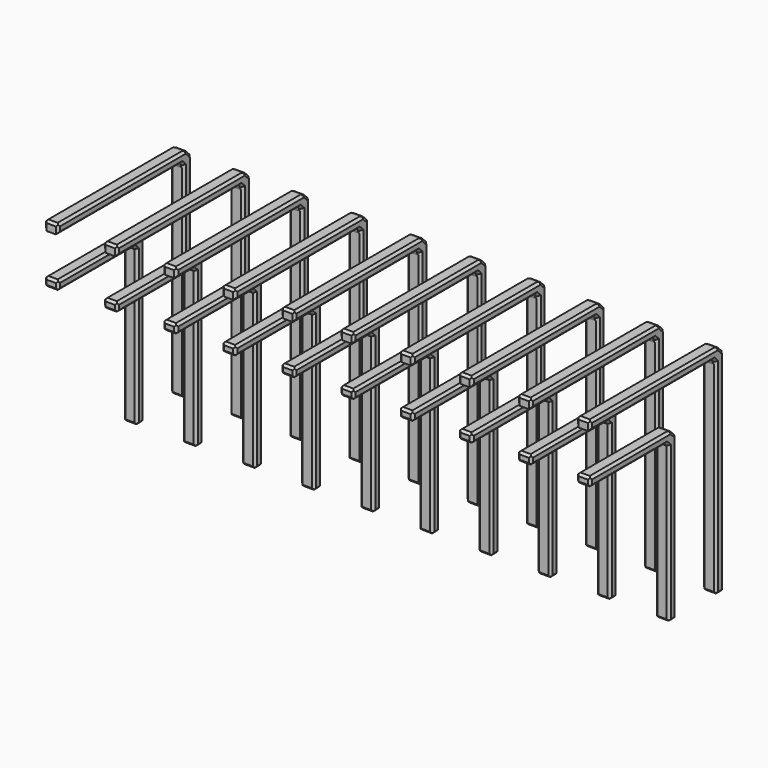
from build123d import *

# Parameters (mm, degrees)
PAD_DEPTH       = 0.6
CHAMFER_SIZE    = 0.1
CHAMFER001_SIZE = 0.1
CHAMFER002_SIZE = 0.1
CHAMFER003_SIZE = 0.1
CHAMFER004_SIZE = 0.1
CHAMFER005_SIZE = 0.1
CHAMFER006_SIZE = 0.1
CHAMFER007_SIZE = 0.1
ARRAY_X_COUNT   = 10
ARRAY_X_PITCH   = 2.54


with BuildPart() as part:
    # Sketch → Pad (new body)
    with BuildSketch(Plane.YZ):
        Polygon((-2.7, 9.9), (1.388579, 9.9), (1.53, 9.758579), (1.53, 3.1), (1.93, 3.1), (1.93, 10.017157), (1.647157, 10.3), (-2.7, 10.3), align=None)
        Polygon((-2.7, 12.44), (-2.7, 12.04), (3.928579, 12.04), (4.07, 11.898579), (4.07, 3.1), (4.47, 3.1), (4.47, 12.157157), (4.187157, 12.44), align=None)
    extrude(amount=PAD_DEPTH)

    # Chamfer
    chamfer_edges = [part.edges().sort_by_distance(p)[0] for p in [
        (0.6, -2.7, 12.24),
        (0.6, 0.614289, 12.04),
        (0.6, 3.999289, 11.969289),
        (0.6, 4.07, 7.499289),
        (0.6, 4.27, 3.1),
        (0.6, 4.47, 7.628579),
        (0.6, 4.328579, 12.298579),
        (0.6, 0.743579, 12.44),
    ]]
    chamfer(chamfer_edges, length=CHAMFER_SIZE)

    # Chamfer001
    chamfer001_edges = [part.edges().sort_by_distance(p)[0] for p in [
        (0, -2.7, 12.24),
        (0, 0.614289, 12.04),
        (0, 3.999289, 11.969289),
        (0, 4.07, 7.499289),
        (0, 4.27, 3.1),
        (0, 4.47, 7.628579),
        (0, 4.328579, 12.298579),
        (0, 0.743579, 12.44),
    ]]
    chamfer(chamfer001_edges, length=CHAMFER001_SIZE)

    # Chamfer002
    chamfer002_edges = [part.edges().sort_by_distance(p)[0] for p in [
        (0.3, 4.07, 3.1),
    ]]
    chamfer(chamfer002_edges, length=CHAMFER002_SIZE)

    # Chamfer003
    chamfer003_edges = [part.edges().sort_by_distance(p)[0] for p in [
        (0.3, -2.7, 12.44),
    ]]
    chamfer(chamfer003_edges, length=CHAMFER003_SIZE)

    # Chamfer004
    chamfer004_edges = [part.edges().sort_by_distance(p)[0] for p in [
        (0.3, 4.07, 11.898579),
    ]]
    chamfer(chamfer004_edges, length=CHAMFER004_SIZE)

    # Chamfer005
    chamfer005_edges = [part.edges().sort_by_distance(p)[0] for p in [
        (0.3, 4.187157, 12.44),
    ]]
    chamfer(chamfer005_edges, length=CHAMFER005_SIZE)

    # Chamfer006
    chamfer006_edges = [part.edges().sort_by_distance(p)[0] for p in [
        (0.6, -0.655711, 9.9),
        (0.6, 1.459289, 9.829289),
        (0.6, 1.53, 6.429289),
        (0.6, 1.73, 3.1),
        (0.6, 1.93, 6.558579),
        (0.6, 1.788579, 10.158579),
        (0.6, -0.526421, 10.3),
        (0.6, -2.7, 10.1),
        (0, -0.655711, 9.9),
        (0, 1.459289, 9.829289),
        (0, 1.53, 6.429289),
        (0, 1.73, 3.1),
        (0, 1.93, 6.558579),
        (0, 1.788579, 10.158579),
        (0, -0.526421, 10.3),
        (0, -2.7, 10.1),
    ]]
    chamfer(chamfer006_edges, length=CHAMFER006_SIZE)

    # Chamfer007
    chamfer007_edges = [part.edges().sort_by_distance(p)[0] for p in [
        (0.3, -2.7, 10.3),
        (0.3, -2.7, 9.9),
        (0.3, 1.647157, 10.3),
        (0.3, 1.93, 3.1),
        (0.3, 1.53, 3.1),
    ]]
    chamfer(chamfer007_edges, length=CHAMFER007_SIZE)

    # Array X: part ×10


with BuildPart() as part_1:
    add(part.part)
    with Locations(*[(i * ARRAY_X_PITCH, 0, 0) for i in range(1, ARRAY_X_COUNT)]):
        add(part.part)


solid = part_1.part
